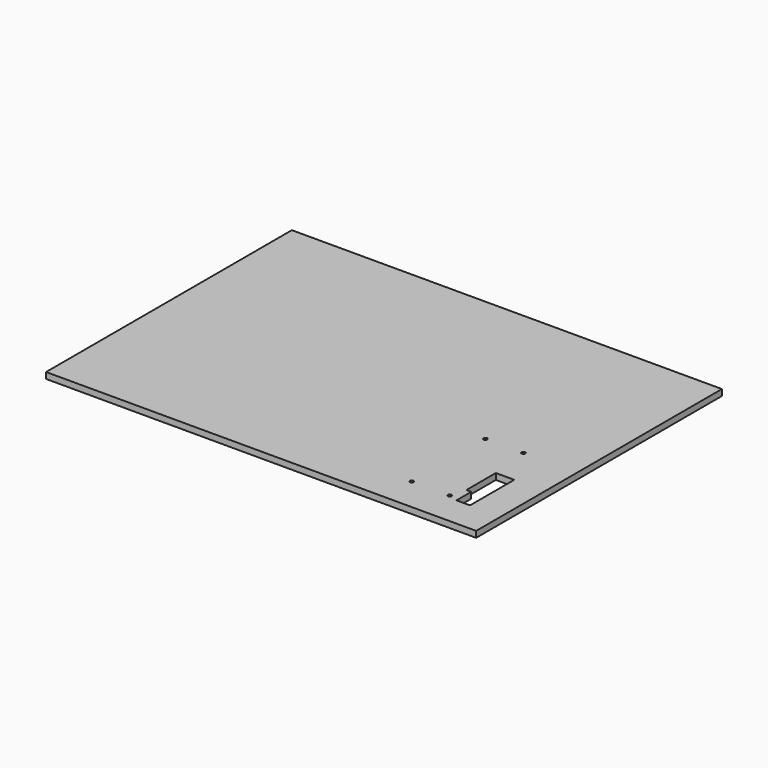
from build123d import *

# Parameters (mm, degrees)
F0_W     = 350
F0_H     = 250
F0_R     = 1.5
F1_DEPTH = 5


with BuildPart() as f1:
    # F0 (on Top) → F1 (new body)
    with BuildSketch(Plane.XY):
        Rectangle(F0_W, F0_H)
        with Locations((100.5, -97.5)):
            Circle(F0_R, mode=Mode.SUBTRACT)
        with Locations((131.5, -97.5)):
            Circle(F0_R, mode=Mode.SUBTRACT)
        Polygon((135, -85), (135, -55), (150, -55), (150, -100), (139, -100), (139, -85), align=None, mode=Mode.SUBTRACT)
        with Locations((100.5, -22.5)):
            Circle(F0_R, mode=Mode.SUBTRACT)
        with Locations((131.5, -22.5)):
            Circle(F0_R, mode=Mode.SUBTRACT)
    extrude(amount=F1_DEPTH)


solid = f1.part
